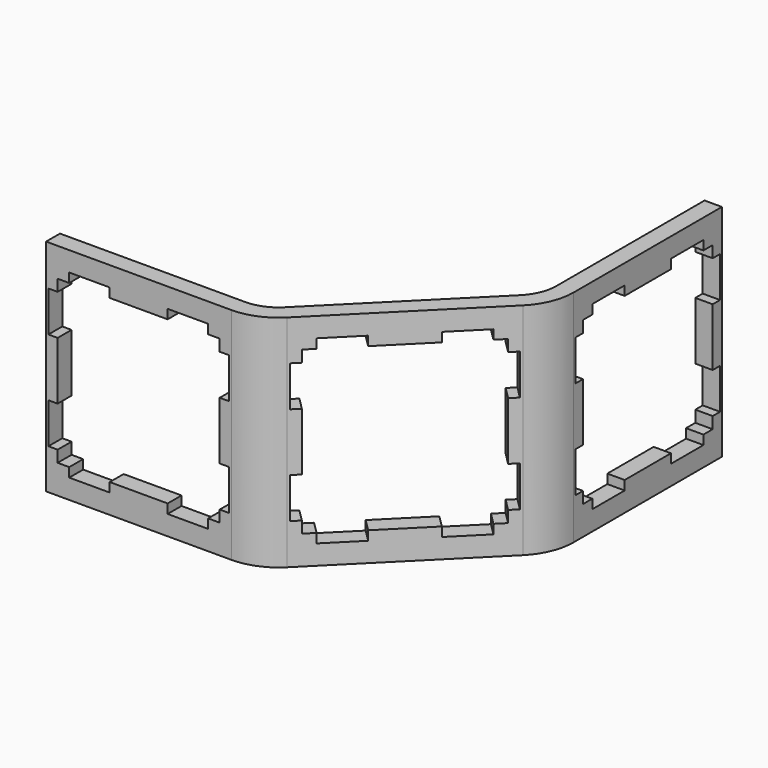
from build123d import *

# Parameters (mm, degrees)
PAD_DEPTH       = 19
POCKET_DEPTH    = 11.62232
POCKET002_DEPTH = 1.501
POCKET003_DEPTH = 1.501


with BuildPart() as part:
    # Sketch → Pad (new body)
    with BuildSketch(Plane.XY):
        with BuildLine():
            Line((0, 0), (16, 0))
            ThreePointArc((16, 0), (17.959845, 0.389838), (19.62132, 1.500001))
            Line((19.62132, 1.500001), (30.935023, 12.813715))
            ThreePointArc((30.935023, 12.813715), (32.045185, 14.475191), (32.435022, 16.435035))
            Line((32.435022, 32.435035), (32.435022, 16.435035))
            Line((30.935022, 32.435035), (32.435022, 32.435035))
            Line((30.935022, 16.435035), (30.935022, 32.435035))
            ThreePointArc((29.874363, 13.874375), (30.659366, 15.049216), (30.935022, 16.435035))
            Line((29.874363, 13.874375), (18.56066, 2.560661))
            ThreePointArc((16, 1.5), (17.385819, 1.775657), (18.56066, 2.560661))
            Line((16, 1.5), (0, 1.5))
            Line((0, 1.5), (0, 0))
        make_face()
    extrude(amount=PAD_DEPTH)

    # Sketch004 → Pocket (cut, through all)
    with BuildSketch(Plane(origin=(8.000009, -8.000001, 0), x_dir=(-0.707106, -0.707107, 0), z_dir=(-0.707107, 0.707106, 0))):
        Polygon((-28.935023, 17.3), (-25.435023, 17.3), (-25.435023, 16.5), (-20.435023, 16.5), (-20.435023, 17.3), (-16.935023, 17.3), (-16.935023, 16.5), (-15.935023, 16.5), (-15.935023, 15.5), (-15.135024, 15.5), (-15.135024, 12), (-15.935023, 12), (-15.935023, 7), (-15.135024, 7), (-15.135024, 3.5), (-15.935023, 3.5), (-15.935023, 2.5), (-16.935023, 2.5), (-16.935023, 1.7), (-20.435023, 1.7), (-20.435023, 2.5), (-25.435023, 2.5), (-25.435023, 1.7), (-28.935023, 1.7), (-28.935023, 2.5), (-29.935023, 2.5), (-29.935023, 3.5), (-30.735024, 3.5), (-30.735024, 7), (-29.935023, 7), (-29.935023, 12), (-30.735024, 12), (-30.735024, 15.5), (-29.935023, 15.5), (-29.935023, 16.5), (-28.935023, 16.5), align=None)
    extrude(amount=-POCKET_DEPTH, mode=Mode.SUBTRACT)

    # Sketch004001 → Pocket002 (cut, through all)
    with BuildSketch(Plane(origin=(30.935022, 0, 0), x_dir=(0, -1, 0), z_dir=(-1, 0, 0))):
        Polygon((-30.435035, 17.3), (-26.935035, 17.3), (-26.935035, 16.5), (-21.935035, 16.5), (-21.935035, 17.3), (-18.435035, 17.3), (-18.435035, 16.5), (-17.435035, 16.5), (-17.435035, 15.5), (-16.635036, 15.5), (-16.635036, 12), (-17.435035, 12), (-17.435035, 7), (-16.635036, 7), (-16.635036, 3.5), (-17.435035, 3.5), (-17.435035, 2.5), (-18.435035, 2.5), (-18.435035, 1.7), (-21.935035, 1.7), (-21.935035, 2.5), (-26.935035, 2.5), (-26.935035, 1.7), (-30.435035, 1.7), (-30.435035, 2.5), (-31.435035, 2.5), (-31.435035, 3.5), (-32.235036, 3.5), (-32.235036, 7), (-31.435035, 7), (-31.435035, 12), (-32.235036, 12), (-32.235036, 15.5), (-31.435035, 15.5), (-31.435035, 16.5), (-30.435035, 16.5), align=None)
    extrude(amount=-POCKET002_DEPTH, mode=Mode.SUBTRACT)

    # Sketch004001001 → Pocket003 (cut, through all)
    with BuildSketch(Plane(origin=(0, 1.5, 0), x_dir=(-1, 0, 0), z_dir=(0, 1, 0))):
        Polygon((-14, 17.3), (-10.5, 17.3), (-10.5, 16.5), (-5.5, 16.5), (-5.5, 17.3), (-2, 17.3), (-2, 16.5), (-1, 16.5), (-1, 15.5), (-0.200001, 15.5), (-0.200001, 12), (-1, 12), (-1, 7), (-0.200001, 7), (-0.200001, 3.5), (-1, 3.5), (-1, 2.5), (-2, 2.5), (-2, 1.7), (-5.5, 1.7), (-5.5, 2.5), (-10.5, 2.5), (-10.5, 1.7), (-14, 1.7), (-14, 2.5), (-15, 2.5), (-15, 3.5), (-15.800001, 3.5), (-15.800001, 7), (-15, 7), (-15, 12), (-15.800001, 12), (-15.800001, 15.5), (-15, 15.5), (-15, 16.5), (-14, 16.5), align=None)
    extrude(amount=-POCKET003_DEPTH, mode=Mode.SUBTRACT)


solid = part.part
